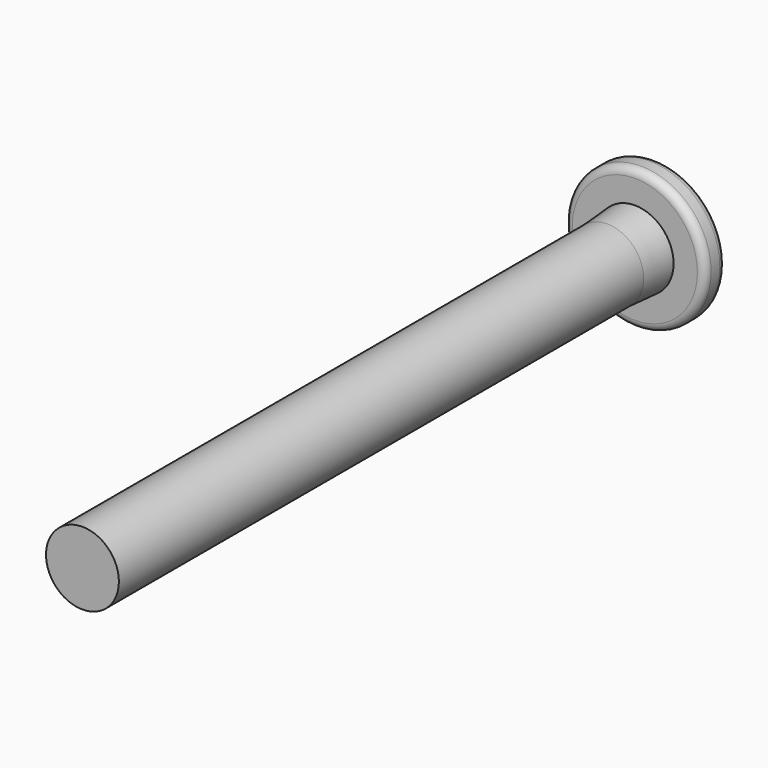
from build123d import *

# Parameters (mm, degrees)
SKETCH_R        = 4.575
PAD_DEPTH       = 1.7
SKETCH001_R     = 2.375
PAD001_DEPTH    = 45
CHAMFER_SIZE2   = 2.25
CHAMFER_SIZE    = 0.15
POCKET_DEPTH    = 2.5
CHAMFER001_SIZE = 0.25
FILLET_R        = 0.5


with BuildPart() as part:
    # Sketch → Pad (new body)
    with BuildSketch(Plane.XZ):
        Circle(SKETCH_R)
    extrude(amount=PAD_DEPTH)

    # Sketch001 (on Face3 of Pad) → Pad001 (join)
    with BuildSketch(Plane.XZ.offset(1.7)):
        Circle(SKETCH001_R)
    extrude(amount=PAD001_DEPTH)

    # Chamfer
    chamfer_edges = [part.edges().sort_by_distance(p)[0] for p in [
        (-2.375, -1.7, 0),
    ]]
    chamfer_side = part.faces().sort_by_distance((-4.445599, -1.7, 0))[0]
    chamfer(chamfer_edges, length=CHAMFER_SIZE, length2=CHAMFER_SIZE2, reference=chamfer_side)

    # Sketch002 (on Face5 of Chamfer) → Pocket (cut)
    with BuildSketch(Plane(origin=(0, 0, 0), x_dir=(-1, 0, 0), z_dir=(0, 1, 0))):
        Polygon((1.732051, 1), (0, 2), (-1.732051, 1), (-1.732051, -1), (0, -2), (1.732051, -1), align=None)
    extrude(amount=-POCKET_DEPTH, mode=Mode.SUBTRACT)

    # Chamfer001
    chamfer001_edges = [part.edges().sort_by_distance(p)[0] for p in [
        (-1.732051, 0, 0),
        (-0.866025, 0, 1.5),
        (0.866025, 0, 1.5),
        (1.732051, 0, 0),
        (0.866025, 0, -1.5),
        (-0.866025, 0, -1.5),
    ]]
    chamfer(chamfer001_edges, length=CHAMFER001_SIZE)

    # Fillet
    fillet_edges = [part.edges().sort_by_distance(p)[0] for p in [
        (4.575, -0.85, 0),
        (-4.575, 0, 0),
        (-4.575, -1.7, 0),
    ]]
    fillet(fillet_edges, radius=FILLET_R)


solid = part.part
